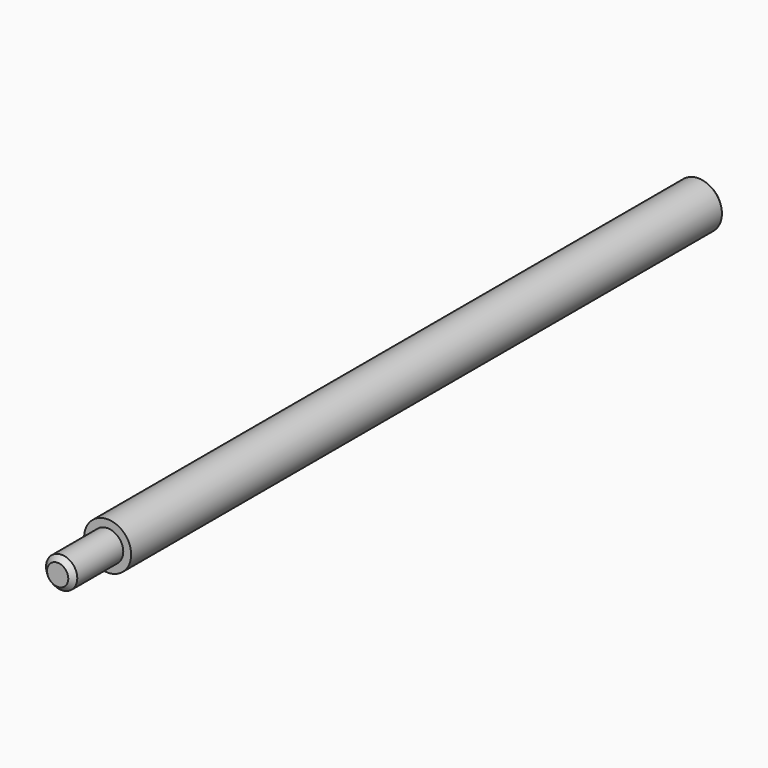
from build123d import *

# Parameters (mm, degrees)
F0_R     = 2.3876
F1_DEPTH = 75.565
F2_R     = 1.5875
F3_DEPTH = 6.35
F4_SIZE  = 0.508


with BuildPart() as f1:
    # F0 (on Front) → F1 (new body)
    with BuildSketch(Plane.XZ):
        Circle(F0_R)
    extrude(amount=F1_DEPTH)

    # F2 (on face) → F3 (join)
    with BuildSketch(Plane.XZ.offset(75.565)):
        Circle(F2_R)
    extrude(amount=F3_DEPTH)

    # F4
    f4_edges = [f1.edges().sort_by_distance(p)[0] for p in [
        (-1.5875, -81.915, 0),
        (-2.3876, 0, 0),
    ]]
    chamfer(f4_edges, length=F4_SIZE)


solid = f1.part
